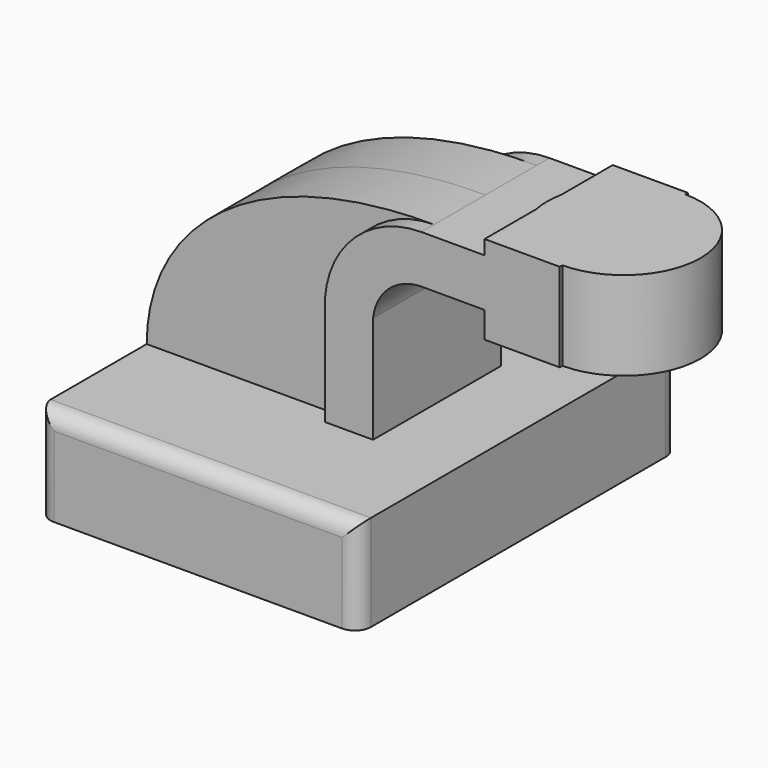
from build123d import *

# Parameters (mm, degrees)
F1_DEPTH = 63.5
F2_R     = 5.08
F0_W     = 23.8256007433
F0_H     = 15.24
F0_H_2   = 4.5536607504
F0_H_3   = 8.295490036
F3_DEPTH = 25.4
F4_DEPTH = 20.32


with BuildPart() as f1:
    # F0 (on Front) → F1 (new body, symmetric)
    with BuildSketch(Plane.XZ):
        Polygon((50.8, 15.24), (25.0475049125, 15.24), (9.811083613, 15.24), (-50.8, 15.24), (-50.8, -15.24), (50.8, -15.24), align=None)
    extrude(amount=F1_DEPTH, both=True)

    # F2
    f2_edges = [f1.edges().sort_by_distance(p)[0] for p in [
        (0, -63.5, 15.24),
        (50.8, -63.5, 0),
        (50.8, 63.5, 0),
        (-50.8, -63.5, 0),
        (-50.8, 63.5, 0),
        (0, 63.5, 15.24),
    ]]
    fillet(f2_edges, radius=F2_R)

    # F0 (on Front) → F3 (join, symmetric)
    with BuildSketch(Plane.XZ):
        with BuildLine():
            Line((9.811083613, 15.24), (25.0475049125, 15.24))
            Line((25.0475049125, 15.24), (25.0475049125, 49.1612727198))
            ThreePointArc((25.0475049125, 49.1612727198), (30.0363393946, 59.0226161714), (40.349945426, 62.9930185175))
            Line((40.349945426, 62.9930185175), (60.413621366, 62.9930185175))
            Line((60.413621366, 62.9930185175), (60.413621366, 78.2330185175))
            Line((60.413621366, 78.2330185175), (40.349945426, 78.2330185175))
            ThreePointArc((40.349945426, 78.2330185175), (19.4853705585, 70.0242707851), (9.8075049125, 49.7992135472))
            Line((9.8075049125, 49.7992135472), (9.8075049125, 16.6551610548))
            Line((9.8075049125, 16.6551610548), (9.811083613, 15.24))
        make_face()
        with Locations((72.3264217377, 70.6130185175)):
            Rectangle(F0_W, F0_H)
        with Locations((72.3264217377, 80.5098488927)):
            Rectangle(F0_W, F0_H_2)
        with Locations((72.3264217377, 58.8452734995)):
            Rectangle(F0_W, F0_H_3)
    extrude(amount=F3_DEPTH, both=True)

    # F0 (on Front) → F4 (join, symmetric)
    with BuildSketch(Plane.XZ):
        with BuildLine():
            Line((-50.8, 15.24), (9.811083613, 15.24))
            Line((9.811083613, 15.24), (9.8075049125, 16.6551610548))
            Line((9.8075049125, 16.6551610548), (9.8075049125, 49.7992135472))
            ThreePointArc((9.8075049125, 49.7992135472), (19.4853705585, 70.0242707851), (40.349945426, 78.2330185175))
            add(Edge.make_bspline(
                [(-50.8, 15.24), (-50.6889559329, 50.4340007901), (-17.0823093504, 78.5231366754), (40.349945426, 78.2330185175)],
                knots=[0, 0, 0, 0, 110.7990655787, 110.7990655787, 110.7990655787, 110.7990655787], degree=3))
        make_face()
    extrude(amount=F4_DEPTH, both=True)

    # F0 (on Front) → F5 (revolve)
    with BuildSketch(Plane.XZ):
        Polygon((84.2392221093, 78.2330185175), (84.2392221093, 62.9930185175), (84.2392221093, 54.6975284815), (108.5664257407, 54.6975284815), (108.5664257407, 82.7866792679), (84.2392221093, 82.7866792679), align=None)
    revolve(axis=Axis((84.2392221093, 0, 68.7421038747), (0, 0, 1)))


solid = f1.part
